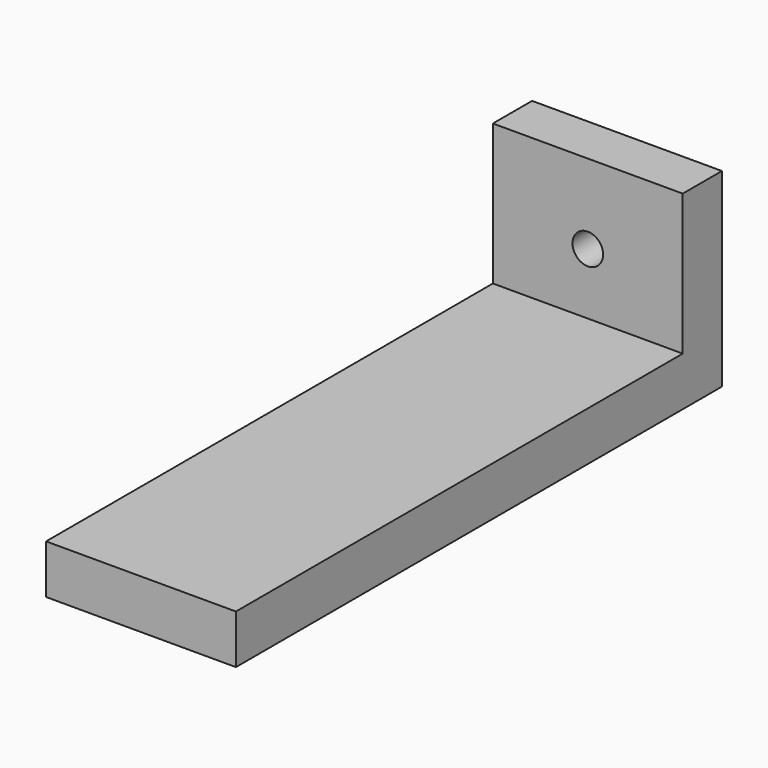
from build123d import *

# Parameters (mm, degrees)
F1_DEPTH = 19.685
F3_D     = 3.175


with BuildPart() as f1:
    # F0 (on Right) → F1 (new body)
    with BuildSketch(Plane.YZ):
        Polygon((-35.253628, -10.520633), (-35.253628, -15.600633), (27.738372, -15.600633), (27.738372, 4.084367), (22.658372, 4.084367), (22.658372, -10.520633), align=None)
    extrude(amount=F1_DEPTH)

    # F3 (through all)
    with Locations(Plane(origin=(0, 27.738372, 0), x_dir=(-1, 0, 0), z_dir=(0, 1, 0))):
        with Locations((-9.8425, -4.170633)):
            Hole(F3_D / 2)


solid = f1.part
